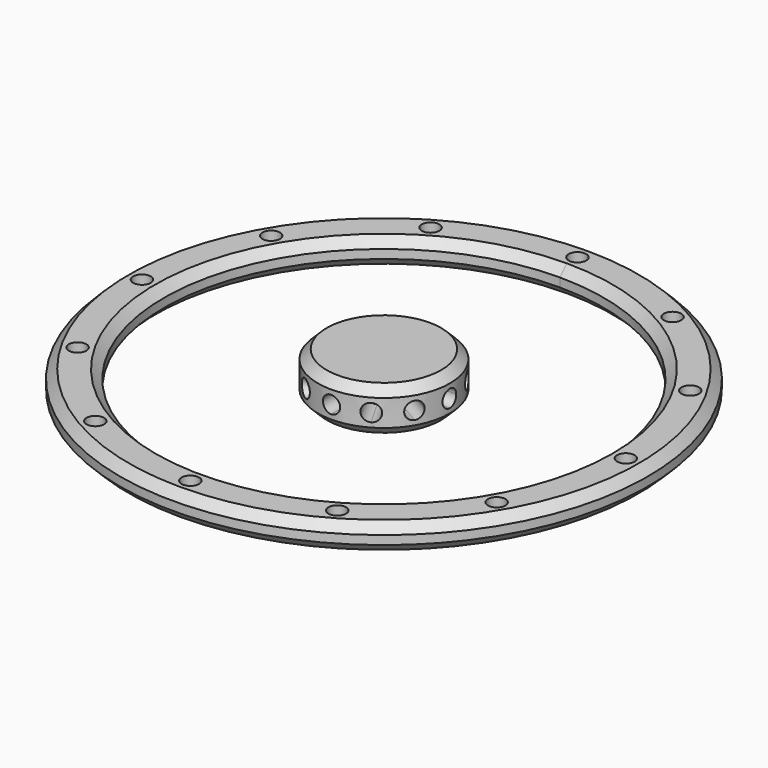
from build123d import *

# Parameters (mm, degrees)
F1_DEPTH = 3
F3_D     = 2
F4_SIZE  = 1
F0_R     = 7.5
F5_DEPTH = 5
F7_START = 4
F7_DEPTH = 10
F8_COUNT = 12
F9_SIZE  = 1


with BuildPart() as f1:
    # F0 (on Top) → F1 (new body)
    with BuildSketch(Plane.XY):
        with BuildLine():
            ThreePointArc((30, 0), (21.2132034356, 21.2132034356), (0, 30))
            ThreePointArc((0, 30), (-21.2132034356, -21.2132034356), (30, 0))
        make_face()
        with BuildLine():
            ThreePointArc((0, 25), (17.6776695297, 17.6776695297), (25, 0))
            ThreePointArc((25, 0), (-17.6776695297, -17.6776695297), (0, 25))
        make_face(mode=Mode.SUBTRACT)
    extrude(amount=F1_DEPTH)

    # F3 (through all)
    with Locations(Plane.XY.offset(3)):
        with Locations((0, 27.5), (-13.75, 23.8156986041), (-23.8156986041, 13.75), (-27.5, 0), (-23.8156986041, -13.75), (-13.75, -23.8156986041), (0, -27.5), (13.75, -23.8156986041), (23.8156986041, -13.75), (27.5, 0), (23.8156986041, 13.75), (13.75, 23.8156986041)):
            Hole(F3_D / 2)

    # F4
    f4_edges = [f1.edges().sort_by_distance(p)[0] for p in [
        (-30, 0, 3),
        (0, -25, 3),
        (-30, 0, 0),
        (0, -25, 0),
    ]]
    chamfer(f4_edges, length=F4_SIZE)


with BuildPart() as f5:
    # F0 (on Top) → F5 (new body)
    with BuildSketch(Plane.XY):
        Circle(F0_R)
    extrude(amount=F5_DEPTH)

    # F8: F7 ×12 about axis
    f8_axis = Axis((0, 0, 2.5), (0, 0, 1))


with BuildPart() as f7:
    # F6 (on Front) → F7 (new body)
    with BuildSketch(Plane.XZ.offset(F7_START)):
        with BuildLine():
            ThreePointArc((0, 3.475), (-0.975, 2.5), (0, 1.525))
            Line((0, 1.525), (0, 3.475))
        make_face()
        with BuildLine():
            Line((0, 3.475), (0, 1.525))
            ThreePointArc((0, 1.525), (0.6894291117, 1.8105708883), (0.975, 2.5))
            ThreePointArc((0.975, 2.5), (0.6894291117, 3.1894291117), (0, 3.475))
        make_face()
    extrude(amount=F7_DEPTH)


with BuildPart() as f5_1:
    add(f5.part)
    for i in range(1, F8_COUNT):
        add(f7.part.rotate(f8_axis, i * 360 / F8_COUNT), mode=Mode.SUBTRACT)

    # F8#seed: cut F7
    add(f7.part, mode=Mode.SUBTRACT)

    # F9
    f9_edges = [f5_1.edges().sort_by_distance(p)[0] for p in [
        (-7.5, 0, 5),
        (-7.5, 0, 0),
    ]]
    chamfer(f9_edges, length=F9_SIZE)


solid = Compound([f1.part, f5_1.part])
